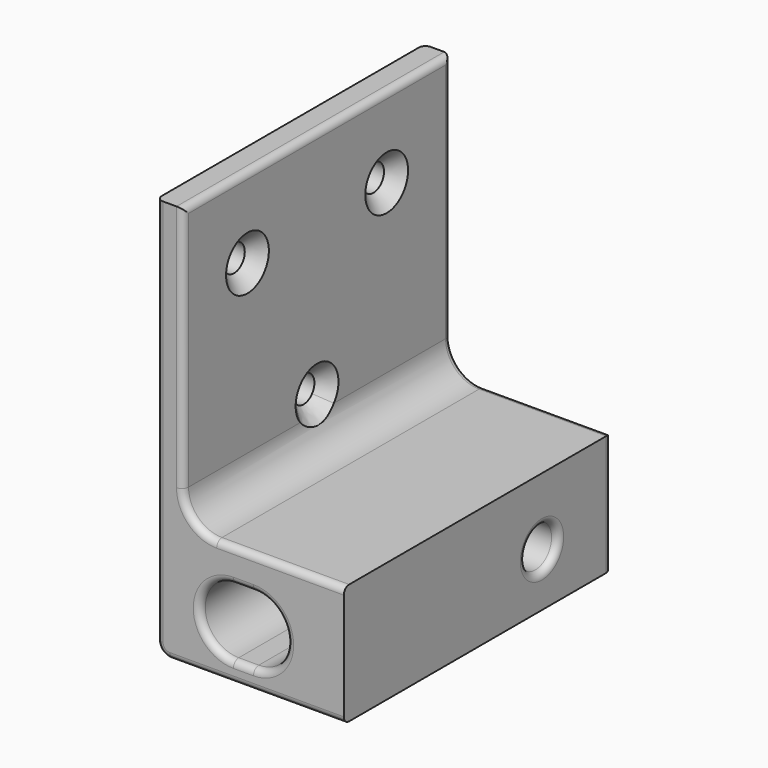
from build123d import *

# Parameters (mm, degrees)
PAD002_DEPTH    = 50
SKETCH022_R     = 3.05
SKETCH022_R_2   = 2
POCKET006_DEPTH = 35
FILLET004_R     = 1
CHAMFER005_SIZE = 2


with BuildPart() as part:
    # Sketch021 → Pad002 (new body)
    with BuildSketch(Plane.XZ):
        with BuildLine():
            Line((0, 62), (0, 4))
            ThreePointArc((0, 4), (0.585786, 2.585786), (2, 2))
            Line((2, 2), (28, 2))
            Line((28, 2), (28, 20))
            Line((28, 20), (9, 20))
            ThreePointArc((4, 25), (5.464466, 21.464466), (9, 20))
            Line((4, 25), (4, 62))
            Line((4, 62), (0, 62))
        make_face()
        with BuildLine():
            ThreePointArc((11.5, 15), (6.5, 10), (11.5, 5))
            Line((11.5, 5), (14.5, 5))
            ThreePointArc((14.5, 5), (19.5, 10), (14.5, 15))
            Line((14.5, 15), (11.5, 15))
        make_face(mode=Mode.SUBTRACT)
    extrude(amount=PAD002_DEPTH)

    # Sketch022 → Pocket006 (cut)
    with BuildSketch(Plane.YZ):
        with Locations((-13, 10)):
            Circle(SKETCH022_R)
        with Locations((-38, 50)):
            Circle(SKETCH022_R_2)
        with Locations((-12, 50)):
            Circle(SKETCH022_R_2)
        with Locations((-25, 27.48334)):
            Circle(SKETCH022_R_2)
    extrude(amount=POCKET006_DEPTH, mode=Mode.SUBTRACT)

    # Fillet004
    fillet004_edges = [part.edges().sort_by_distance(p)[0] for p in [
        (4, 0, 43.5),
        (4, -25, 62),
        (4, -50, 43.5),
        (15, 0, 2),
        (18.5, 0, 20),
        (28, 0, 11),
        (18.5, -50, 20),
        (5.464466, -50, 21.464466),
        (5.464466, 0, 21.464466),
        (15, -50, 2),
        (0.585786, -50, 2.585786),
        (0.585786, 0, 2.585786),
        (6.5, 0, 10),
        (19.5, 0, 10),
        (13, 0, 5),
        (13, 0, 15),
        (28, -16.05, 10),
        (6.5, -16.05, 10),
        (6.5, -50, 10),
        (19.5, -50, 10),
        (13, -50, 15),
        (13, -50, 5),
    ]]
    fillet(fillet004_edges, radius=FILLET004_R)

    # Chamfer005
    chamfer005_edges = [part.edges().sort_by_distance(p)[0] for p in [
        (4, -27, 27.48334),
        (4, -40, 50),
        (4, -14, 50),
    ]]
    chamfer(chamfer005_edges, length=CHAMFER005_SIZE)


solid = part.part
